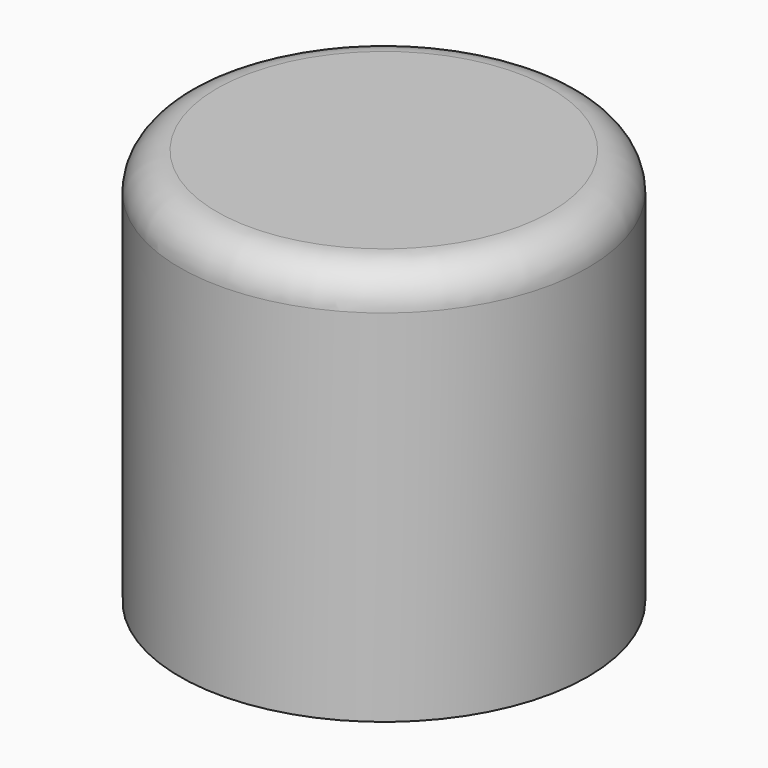
from build123d import *

# Parameters (mm, degrees)
F0_R     = 55
F0_R_2   = 51
F0_R_3   = 46
F1_DEPTH = 7
F2_DEPTH = 50
F3_DEPTH = 100
F4_R     = 10


with BuildPart() as f1:
    # F0 (on Top) → F1 (new body)
    with BuildSketch(Plane.XY):
        Circle(F0_R)
        Circle(F0_R_2, mode=Mode.SUBTRACT)
        Circle(F0_R_2)
        Circle(F0_R_3, mode=Mode.SUBTRACT)
        Circle(F0_R_3)
    extrude(amount=F1_DEPTH)

    # F0 (on Top) → F2 (join)
    with BuildSketch(Plane.XY):
        Circle(F0_R_2)
        Circle(F0_R_3, mode=Mode.SUBTRACT)
    extrude(amount=-F2_DEPTH)

    # F0 (on Top) → F3 (join)
    with BuildSketch(Plane.XY):
        Circle(F0_R)
        Circle(F0_R_2, mode=Mode.SUBTRACT)
    extrude(amount=-F3_DEPTH)

    # F4
    f4_edges = [f1.edges().sort_by_distance(p)[0] for p in [
        (-55, 0, 7),
    ]]
    fillet(f4_edges, radius=F4_R)


solid = f1.part
